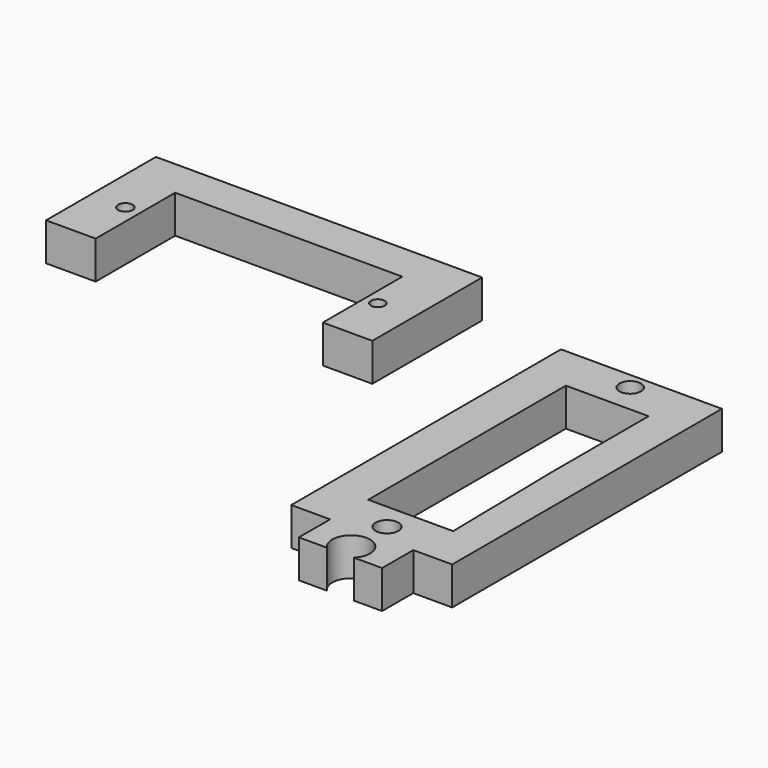
from build123d import *

# Parameters (mm, degrees)
F2_DEPTH  = 4
F1_R      = 0.7184874266
F3_DEPTH  = 15.1
F1_R_2    = 0.7667610487
F4_DEPTH  = 25
F6_DEPTH  = 4
F11_DEPTH = 4
F12_DEPTH = 25
F14_R     = 0.9874667044
F15_DEPTH = 55.7
F16_R     = 1.136027817
F16_R_2   = 1.1974778026
F17_DEPTH = 25


with BuildPart() as f2:
    # F0 (on Top) → F2 (new body)
    with BuildSketch(Plane.XY):
        Polygon((-13.1012657657, 5.9655876346), (-47.5642964626, 5.9655876346), (-47.5642964626, -8.5344123654), (-42.329105028, -8.5344123654), (-42.329105028, 1.9655876346), (-18.329105028, 1.9655876346), (-18.329105028, -8.5344123654), (-13.1012657657, -8.5344123654), align=None)
    extrude(amount=F2_DEPTH)

    # F1 (on Top) → F3 (cut)
    with BuildSketch(Plane.XY):
        with Locations((-16.9415455312, -3.0052363873)):
            Circle(F1_R)
    extrude(amount=F3_DEPTH, mode=Mode.SUBTRACT)

    # F1 (on Top) → F4 (cut)
    with BuildSketch(Plane.XY):
        with Locations((-43.8972748816, -2.6459926739)):
            Circle(F1_R_2)
    extrude(amount=F4_DEPTH, mode=Mode.SUBTRACT)

    # F14 (on face) → F15 (cut)
    with BuildSketch(Plane.XY.offset(4)):
        with Locations((8.5520371795, -2.05092947)):
            Circle(F14_R)
    extrude(amount=F15_DEPTH, mode=Mode.SUBTRACT)


with BuildPart() as f6:
    # F5 (on Top) → F6 (new body)
    with BuildSketch(Plane.XY):
        with BuildLine():
            Line((8.5, 0), (0, 0))
            Line((0, 0), (0, -35.6148630381))
            Line((0, -35.6148630381), (4.112906754, -35.6148630381))
            Line((4.112906754, -35.6148630381), (4.0884604603, -39.7291481495))
            Line((4.0884604603, -39.7291481495), (7.074095975, -39.7291481495))
            ThreePointArc((7.074095975, -39.7291481495), (7.7220620747, -36.4667871873), (10.4877768531, -38.3144021034))
            ThreePointArc((10.4877768531, -38.3144021034), (10.3353917692, -39.0801168818), (9.9014577313, -39.7291481495))
            Line((9.9014577313, -39.7291481495), (12.887093246, -39.7291481495))
            Line((12.887093246, -39.7291481495), (12.887093246, -35.6148630381))
            Line((12.887093246, -35.6148630381), (17, -35.6148630381))
            Line((17, -35.6148630381), (17, 0))
            Line((17, 0), (8.5, 0))
        make_face()
    extrude(amount=F6_DEPTH)

    # F10 (on face) + F7 (on face) → F11 (join)
    with BuildSketch(Plane.XY.offset(4)):
        Polygon((13.1072346121, -4.8111509532), (4.3656374328, -4.8111509532), (4.3656374328, -17.7439264953), (4.3656374328, -30.9161972255), (13.3467307314, -30.9161972255), (13.1072346121, -17.7439264953), align=None)
    with BuildSketch(Plane.XY.offset(4)):
        with BuildLine():
            Line((17, -35.6148630381), (17, 0))
            Line((17, 0), (0, 0))
            Line((0, 0), (0, -35.6148630381))
            Line((0, -35.6148630381), (4.112906754, -35.6148630381))
            Line((4.112906754, -35.6148630381), (4.0884604603, -39.7291481495))
            Line((4.0884604603, -39.7291481495), (7.074095975, -39.7291481495))
            ThreePointArc((7.074095975, -39.7291481495), (7.7220620747, -36.4667871873), (10.4877768531, -38.3144021034))
            ThreePointArc((10.4877768531, -38.3144021034), (10.3353917692, -39.0801168818), (9.9014577313, -39.7291481495))
            Line((9.9014577313, -39.7291481495), (12.887093246, -39.7291481495))
            Line((12.887093246, -39.7291481495), (12.887093246, -35.6148630381))
            Line((12.887093246, -35.6148630381), (17, -35.6148630381))
        make_face()
    extrude(amount=-F11_DEPTH)

    # F10 (on face) → F12 (cut)
    with BuildSketch(Plane.XY.offset(4)):
        Polygon((13.1072346121, -4.8111509532), (4.3656374328, -4.8111509532), (4.3656374328, -17.7439264953), (4.3656374328, -30.9161972255), (13.3467307314, -30.9161972255), (13.1072346121, -17.7439264953), align=None)
    extrude(amount=-F12_DEPTH, mode=Mode.SUBTRACT)

    # F16 (on face) → F17 (cut)
    with BuildSketch(Plane.XY.offset(4)):
        with Locations((8.7120030075, -1.7449193401)):
            Circle(F16_R)
        with Locations((8.5922544822, -33.717609942)):
            Circle(F16_R_2)
    extrude(amount=-F17_DEPTH, mode=Mode.SUBTRACT)


solid = Compound([f2.part, f6.part])
